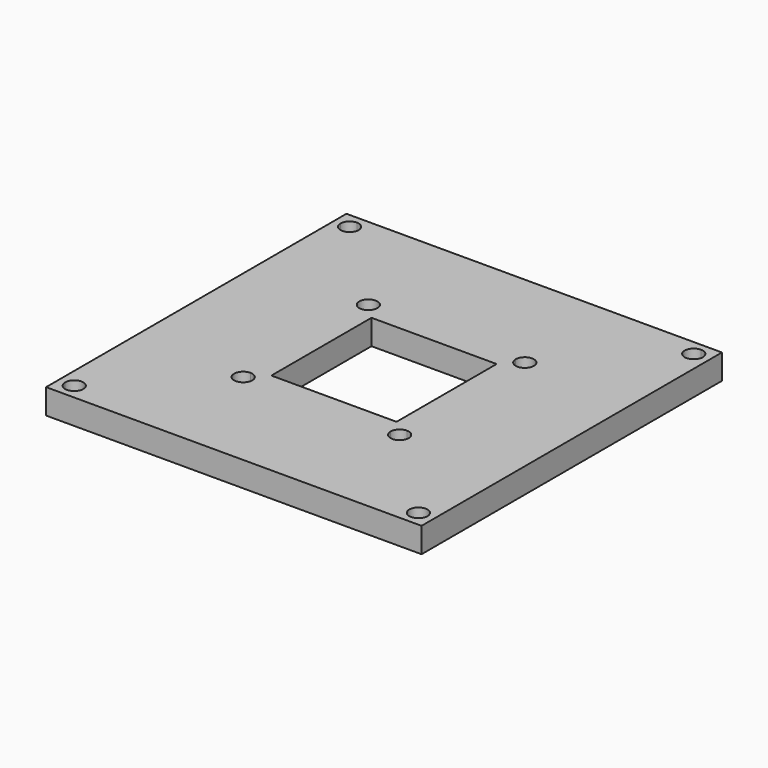
from build123d import *

# Parameters (mm, degrees)
F1_DEPTH = 5.08


with BuildPart() as f1:
    # F0 (on Top) → F1 (new body)
    with BuildSketch(Plane.XY):
        Polygon((16.620829, 31.166514), (-8.779171, 31.166514), (-8.779171, 8.941514), (-8.779171, 5.766514), (16.620829, 5.766514), (16.620829, 8.941514), align=None)
        with BuildLine():
            Line((-8.779171, 31.166514), (-31.004171, 31.166514))
            Line((-31.004171, 31.166514), (-31.004171, 29.833014))
            ThreePointArc((-31.004171, 29.833014), (-29.702034, 29.293651), (-29.162671, 27.991514))
            ThreePointArc((-29.162671, 27.991514), (-31.004171, 26.150014), (-32.845671, 27.991514))
            Line((-32.845671, 27.991514), (-34.179171, 27.991514))
            Line((-34.179171, 27.991514), (-34.179171, 5.766514))
            Line((-34.179171, 5.766514), (-11.954171, 5.766514))
            Line((-11.954171, 5.766514), (-11.954171, 7.100014))
            ThreePointArc((-11.954171, 7.100014), (-13.256308, 10.243651), (-10.112671, 8.941514))
            Line((-10.112671, 8.941514), (-8.779171, 8.941514))
            Line((-8.779171, 8.941514), (-8.779171, 31.166514))
        make_face()
        Polygon((-11.954171, 5.766514), (-34.179171, 5.766514), (-34.179171, -19.633486), (-11.954171, -19.633486), (-8.779171, -19.633486), (-8.779171, 5.766514), align=None)
        with BuildLine():
            Line((-11.954171, -19.633486), (-34.179171, -19.633486))
            Line((-34.179171, -19.633486), (-34.179171, -41.858486))
            Line((-34.179171, -41.858486), (-32.845671, -41.858486))
            ThreePointArc((-32.845671, -41.858486), (-31.004171, -40.016986), (-29.162671, -41.858486))
            ThreePointArc((-29.162671, -41.858486), (-29.702034, -43.160623), (-31.004171, -43.699986))
            Line((-31.004171, -43.699986), (-31.004171, -45.033486))
            Line((-31.004171, -45.033486), (-8.779171, -45.033486))
            Line((-8.779171, -45.033486), (-8.779171, -22.808486))
            Line((-8.779171, -22.808486), (-10.112671, -22.808486))
            ThreePointArc((-10.112671, -22.808486), (-13.256308, -24.110623), (-11.954171, -20.966986))
            Line((-11.954171, -20.966986), (-11.954171, -19.633486))
        make_face()
        Polygon((16.620829, -19.633486), (-8.779171, -19.633486), (-8.779171, -22.808486), (-8.779171, -45.033486), (16.620829, -45.033486), (16.620829, -22.808486), align=None)
        with BuildLine():
            Line((16.620829, -22.808486), (16.620829, -45.033486))
            Line((16.620829, -45.033486), (38.845829, -45.033486))
            Line((38.845829, -45.033486), (38.845829, -43.699986))
            ThreePointArc((38.845829, -43.699986), (37.543692, -40.556349), (40.687329, -41.858486))
            Line((40.687329, -41.858486), (42.020829, -41.858486))
            Line((42.020829, -41.858486), (42.020829, -19.633486))
            Line((42.020829, -19.633486), (19.795829, -19.633486))
            Line((19.795829, -19.633486), (19.795829, -20.966986))
            ThreePointArc((19.795829, -20.966986), (21.097966, -21.506349), (21.637329, -22.808486))
            ThreePointArc((21.637329, -22.808486), (19.795829, -24.649986), (17.954329, -22.808486))
            Line((17.954329, -22.808486), (16.620829, -22.808486))
        make_face()
        Polygon((19.795829, 5.766514), (16.620829, 5.766514), (16.620829, -19.633486), (19.795829, -19.633486), (42.020829, -19.633486), (42.020829, 5.766514), align=None)
        with BuildLine():
            Line((38.845829, 31.166514), (16.620829, 31.166514))
            Line((16.620829, 31.166514), (16.620829, 8.941514))
            Line((16.620829, 8.941514), (17.954329, 8.941514))
            ThreePointArc((17.954329, 8.941514), (19.795829, 10.783014), (21.637329, 8.941514))
            ThreePointArc((21.637329, 8.941514), (21.097966, 7.639377), (19.795829, 7.100014))
            Line((19.795829, 7.100014), (19.795829, 5.766514))
            Line((19.795829, 5.766514), (42.020829, 5.766514))
            Line((42.020829, 5.766514), (42.020829, 27.991514))
            Line((42.020829, 27.991514), (40.687329, 27.991514))
            ThreePointArc((40.687329, 27.991514), (37.543692, 26.689377), (38.845829, 29.833014))
            Line((38.845829, 29.833014), (38.845829, 31.166514))
        make_face()
        with BuildLine():
            Line((17.954329, 8.941514), (16.620829, 8.941514))
            Line((16.620829, 8.941514), (16.620829, 5.766514))
            Line((16.620829, 5.766514), (19.795829, 5.766514))
            Line((19.795829, 5.766514), (19.795829, 7.100014))
            ThreePointArc((19.795829, 7.100014), (18.493692, 7.639377), (17.954329, 8.941514))
        make_face()
        with BuildLine():
            Line((42.020829, 27.991514), (42.020829, 31.166514))
            Line((42.020829, 31.166514), (38.845829, 31.166514))
            Line((38.845829, 31.166514), (38.845829, 29.833014))
            ThreePointArc((38.845829, 29.833014), (40.147966, 29.293651), (40.687329, 27.991514))
            Line((40.687329, 27.991514), (42.020829, 27.991514))
        make_face()
        with BuildLine():
            Line((-8.779171, 5.766514), (-8.779171, 8.941514))
            Line((-8.779171, 8.941514), (-10.112671, 8.941514))
            ThreePointArc((-10.112671, 8.941514), (-10.652034, 7.639377), (-11.954171, 7.100014))
            Line((-11.954171, 7.100014), (-11.954171, 5.766514))
            Line((-11.954171, 5.766514), (-8.779171, 5.766514))
        make_face()
        with BuildLine():
            Line((-8.779171, -19.633486), (-11.954171, -19.633486))
            Line((-11.954171, -19.633486), (-11.954171, -20.966986))
            ThreePointArc((-11.954171, -20.966986), (-10.652034, -21.506349), (-10.112671, -22.808486))
            Line((-10.112671, -22.808486), (-8.779171, -22.808486))
            Line((-8.779171, -22.808486), (-8.779171, -19.633486))
        make_face()
        with BuildLine():
            Line((19.795829, -19.633486), (16.620829, -19.633486))
            Line((16.620829, -19.633486), (16.620829, -22.808486))
            Line((16.620829, -22.808486), (17.954329, -22.808486))
            ThreePointArc((17.954329, -22.808486), (18.493692, -21.506349), (19.795829, -20.966986))
            Line((19.795829, -20.966986), (19.795829, -19.633486))
        make_face()
        with BuildLine():
            Line((-31.004171, 31.166514), (-34.179171, 31.166514))
            Line((-34.179171, 31.166514), (-34.179171, 27.991514))
            Line((-34.179171, 27.991514), (-32.845671, 27.991514))
            ThreePointArc((-32.845671, 27.991514), (-32.306308, 29.293651), (-31.004171, 29.833014))
            Line((-31.004171, 29.833014), (-31.004171, 31.166514))
        make_face()
        with BuildLine():
            Line((-34.179171, -41.858486), (-34.179171, -45.033486))
            Line((-34.179171, -45.033486), (-31.004171, -45.033486))
            Line((-31.004171, -45.033486), (-31.004171, -43.699986))
            ThreePointArc((-31.004171, -43.699986), (-32.306308, -43.160623), (-32.845671, -41.858486))
            Line((-32.845671, -41.858486), (-34.179171, -41.858486))
        make_face()
        with BuildLine():
            Line((38.845829, -45.033486), (42.020829, -45.033486))
            Line((42.020829, -45.033486), (42.020829, -41.858486))
            Line((42.020829, -41.858486), (40.687329, -41.858486))
            ThreePointArc((40.687329, -41.858486), (40.147966, -43.160623), (38.845829, -43.699986))
            Line((38.845829, -43.699986), (38.845829, -45.033486))
        make_face()
    extrude(amount=F1_DEPTH)


solid = f1.part
